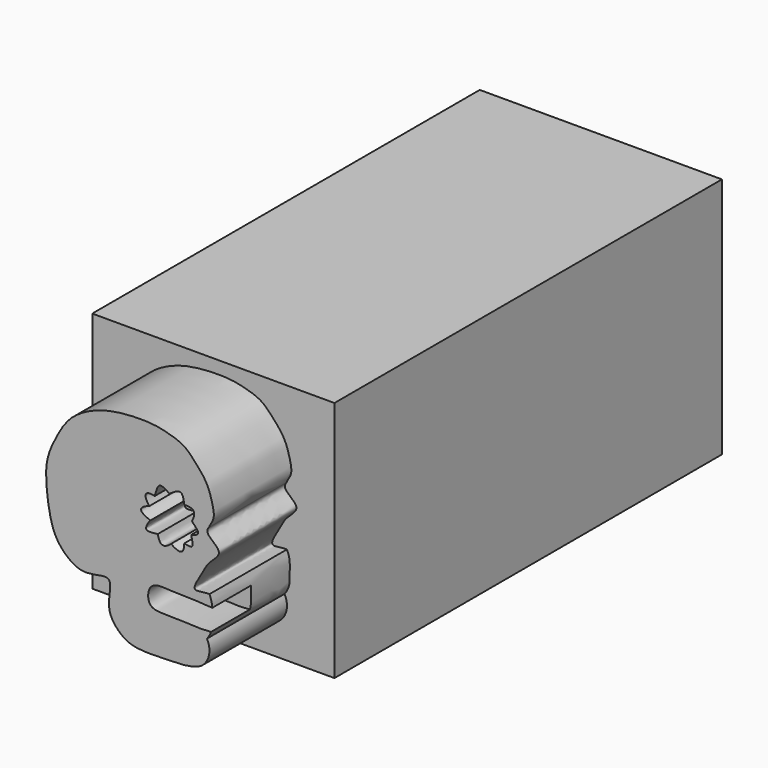
from build123d import *

# Parameters (mm, degrees)
F2_DEPTH = 5.08
F4_DEPTH = 2.54
F1_W     = 12.7
F1_H     = 12.7
F5_DEPTH = 25.4


with BuildPart() as f2:
    # F0 (on Front) → F2 (new body)
    with BuildSketch(Plane.XZ):
        with BuildLine():
            add(Edge.make_bspline(
                [(-4.5544075169, 1.3928102558), (-3.9892874978, 1.3936850005), (-3.4668862346, 1.4183520112), (-2.9626822173, 1.6524156046)],
                knots=[0, 0, 0, 0, 1.6127567598, 1.6127567598, 1.6127567598, 1.6127567598], degree=3))
            ThreePointArc((-2.9626822173, 1.6524156046), (-2.5207832675, 2.2763871387), (-2.6206157382, 3.0344429644))
            add(Edge.make_bspline(
                [(-2.4891644716, 5.1324297674), (-2.3917935509, 4.9163684072), (-2.3253208599, 4.6052474923), (-2.353390935, 4.1438424987), (-2.3281786078, 3.742489633), (-2.3932487238, 3.3100298606), (-2.6206157382, 3.0344429644)],
                knots=[0, 0, 0, 0, 0.2589698298, 0.4843279934, 0.6967977434, 1, 1, 1, 1], degree=3))
            add(Edge.make_bspline(
                [(-2.4891644716, 5.1324297674), (-2.8544493428, 5.1336356945), (-3.5672375297, 4.8785009618), (-2.8152049208, 6.0650838014), (-2.5884297024, 6.5663222822), (-1.7654979463, 7.1854603195), (-2.3447073669, 7.6364237388), (-2.7154974719, 7.9931282788), (-2.5049047545, 8.2173803821)],
                knots=[0, 0, 0, 0, 0.1716411, 0.3609103093, 0.5270907012, 0.6999372879, 0.8498725142, 1, 1, 1, 1], degree=3))
            add(Edge.make_bspline(
                [(-8.4889251739, 4.0800906718), (-8.7589659452, 4.0356777743), (-9.3664055338, 3.9357737781), (-10.5025798395, 4.8392058498), (-10.9059573733, 6.1149046303), (-11.0740084695, 7.5770614576), (-11.0572913783, 8.6481895291), (-10.5066556684, 9.8561725352), (-9.801754858, 11.0173560965), (-8.5112279732, 11.7040800215), (-7.5130409963, 11.949362548), (-6.5368197907, 12.0472622026), (-5.4793488606, 12.0464613388), (-4.709549558, 11.8804829441), (-3.8077392578, 11.6081842347), (-3.2731241454, 11.0134554774), (-2.6219451437, 10.30229784), (-2.3610549942, 9.4868714168), (-2.171059183, 8.6611482213), (-2.4550122068, 8.385969167), (-2.5049047545, 8.2173803821)],
                knots=[0, 0, 0, 0, 0.0500780332, 0.1130041956, 0.1768956978, 0.2430992912, 0.299601719, 0.3619066714, 0.4259636055, 0.4912026128, 0.546777757, 0.6011196121, 0.6571512931, 0.7063637819, 0.7583810191, 0.807340639, 0.8606442381, 0.9121796378, 0.9605447696, 1, 1, 1, 1], degree=3))
            add(Edge.make_bspline(
                [(-8.4889251739, 4.0800906718), (-8.1891140401, 4.1435086925), (-7.5824093701, 4.2718428501), (-7.7738611768, 3.2641836277), (-7.7788952185, 2.4127249564), (-6.96730618, 1.53934763), (-6.0435092719, 1.3353211789), (-5.0895326997, 1.3721509203), (-4.5544075169, 1.3928102558)],
                knots=[0, 0, 0, 0, 0.1444018704, 0.2922149289, 0.4524717395, 0.6284063598, 0.7915576541, 1, 1, 1, 1], degree=3))
        make_face()
    extrude(amount=F2_DEPTH)

    # F3 (on face) → F4 (cut)
    with BuildSketch(Plane.XZ.offset(5.08)):
        with BuildLine():
            add(Edge.make_bspline(
                [(-5.3659848497, 8.7208530881), (-5.2846155708, 8.9727846377), (-5.1710596458, 9.5011555318), (-4.7726393834, 9.210328647), (-4.5891036161, 9.0864328929)],
                knots=[0, 0, 0, 0, 0.5208455257, 1, 1, 1, 1], degree=3))
            add(Edge.make_bspline(
                [(-5.6486829395, 8.1671502605), (-5.8447078545, 8.4470894225), (-5.89391753, 8.7083353104), (-5.6496376746, 8.8005099615), (-5.3659848497, 8.7208530881)],
                knots=[0, 0, 0, 0, 0.5203515764, 1, 1, 1, 1], degree=3))
            add(Edge.make_bspline(
                [(-5.5914319294, 7.523380365), (-5.9265031703, 7.6624876681), (-6.211049844, 7.8478040514), (-5.9524201806, 8.0796377028), (-5.6486829395, 8.1671502605)],
                knots=[0, 0, 0, 0, 0.5158761073, 1, 1, 1, 1], degree=3))
            add(Edge.make_bspline(
                [(-5.205368324, 7.020722894), (-5.515797094, 6.9918642839), (-5.9481758185, 6.9293833828), (-5.7582442305, 7.3223857959), (-5.5914319294, 7.523380365)],
                knots=[0, 0, 0, 0, 0.5169308821, 1, 1, 1, 1], degree=3))
            add(Edge.make_bspline(
                [(-4.503384329, 6.7972433223), (-4.6912512029, 6.6368405751), (-5.0149208939, 6.4855239947), (-5.1457634756, 6.7906186317), (-5.205368324, 7.020722894)],
                knots=[0, 0, 0, 0, 0.5060867221, 1, 1, 1, 1], degree=3))
            add(Edge.make_bspline(
                [(-3.8085296017, 7.0489807986), (-3.8179540305, 6.8205589246), (-3.9035421605, 6.4800894964), (-4.2735109706, 6.6416122857), (-4.503384329, 6.7972433223)],
                knots=[0, 0, 0, 0, 0.4741735792, 1, 1, 1, 1], degree=3))
            add(Edge.make_bspline(
                [(-3.4450484308, 7.5613067453), (-3.3931593436, 7.3388874407), (-3.2822488519, 6.9007696507), (-3.643370237, 7.0191586974), (-3.8085296017, 7.0489807986)],
                knots=[0, 0, 0, 0, 0.5361984101, 1, 1, 1, 1], degree=3))
            add(Edge.make_bspline(
                [(-3.4099325727, 8.2039631478), (-3.2352017889, 8.026130414), (-2.9070428182, 7.6933064131), (-3.2817976238, 7.6055767004), (-3.4450484308, 7.5613067453)],
                knots=[0, 0, 0, 0, 0.544051219, 1, 1, 1, 1], degree=3))
            add(Edge.make_bspline(
                [(-3.8085296017, 8.8362629435), (-3.5648082767, 8.8254965564), (-3.2197177366, 8.7894369685), (-3.2957520719, 8.4058710656), (-3.4099325727, 8.2039631478)],
                knots=[0, 0, 0, 0, 0.498752658, 1, 1, 1, 1], degree=3))
            add(Edge.make_bspline(
                [(-4.5891036161, 9.0864328929), (-4.3604972194, 9.2348500345), (-3.9239269227, 9.5411548249), (-3.8456756119, 9.0618850519), (-3.8085296017, 8.8362629435)],
                knots=[0, 0, 0, 0, 0.5208679793, 1, 1, 1, 1], degree=3))
        make_face()
        with BuildLine():
            add(Edge.make_bspline(
                [(-2.3434008563, 4.5467756363), (-2.3371047246, 4.4107865736), (-2.3527985145, 4.134411807), (-2.3331786748, 3.8220852684), (-2.3628702318, 3.5440811456), (-2.4050047171, 3.4165451502)],
                knots=[0.2763820067, 0.2763820067, 0.2763820067, 0.2763820067, 0.4843279934, 0.6967977434, 0.8530401243, 0.8530401243, 0.8530401243, 0.8530401243], degree=3))
            add(Edge.make_bspline(
                [(-2.3434008563, 4.5467756363), (-2.5799295982, 4.5740173506), (-3.306592605, 4.6187595682), (-4.4065439596, 4.5927229699), (-5.7091448571, 4.7733705585), (-5.7837350784, 3.4109409569), (-4.6706431829, 3.462309837), (-3.7363509645, 3.4226981298), (-2.9067433155, 3.3728872928), (-2.551855723, 3.4093395126), (-2.4050047171, 3.4165451502)],
                knots=[0, 0, 0, 0, 0.1262990683, 0.2716966967, 0.4089490542, 0.5305134586, 0.6554946789, 0.788539933, 0.9079641556, 1, 1, 1, 1], degree=3))
        make_face()
    extrude(amount=-F4_DEPTH, mode=Mode.SUBTRACT)

    # F1 (on Front) → F5 (join)
    with BuildSketch(Plane.XZ):
        with Locations((-6.35, 6.35)):
            Rectangle(F1_W, F1_H)
    extrude(amount=-F5_DEPTH)


solid = f2.part
